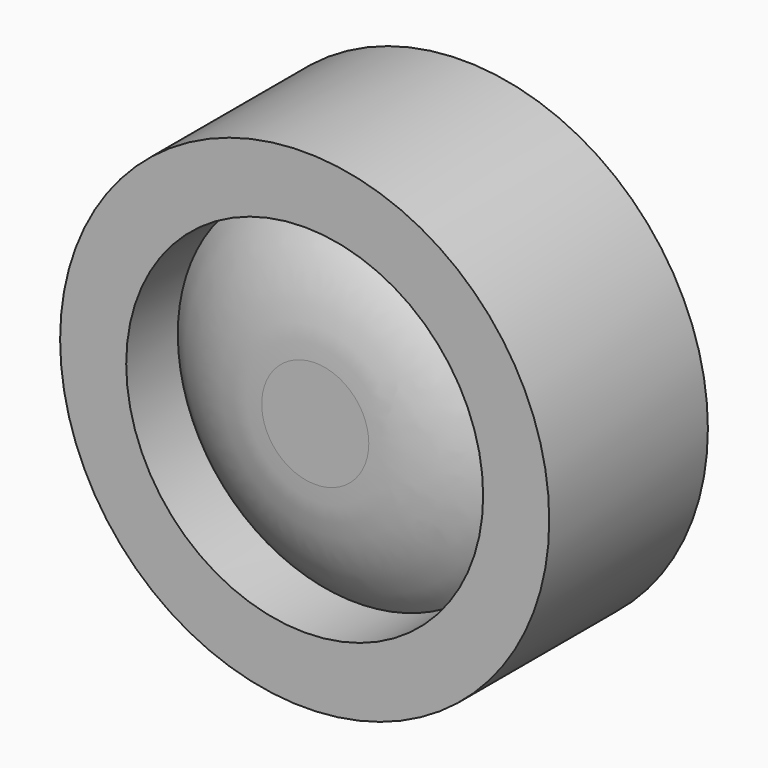
from build123d import *

# Parameters (mm, degrees)
F0_R     = 9.398
F1_DEPTH = 7.62
F2_T     = -3.048
F3_R     = 4.2924717139
F4_T     = -2.54


with BuildPart() as f1:
    # F0 (on Front) → F1 (new body)
    with BuildSketch(Plane.XZ):
        with Locations((3.7124650553, 24.0670088679)):
            Circle(F0_R)
    extrude(amount=F1_DEPTH)

    # F2
    f2_openings = [f1.faces().sort_by_distance(p)[0] for p in [
        (3.712465, 0, 24.067009),
    ]]
    offset(amount=F2_T, openings=f2_openings)

    # F3
    f3_edges = [f1.edges().sort_by_distance(p)[0] for p in [
        (-2.637535, -4.572, 24.067009),
    ]]
    fillet(f3_edges, radius=F3_R)

    # F4
    f4_openings = [f1.faces().sort_by_distance(p)[0] for p in [
        (3.712465, -7.62, 24.067009),
    ]]
    offset(amount=F4_T, openings=f4_openings)


solid = f1.part
